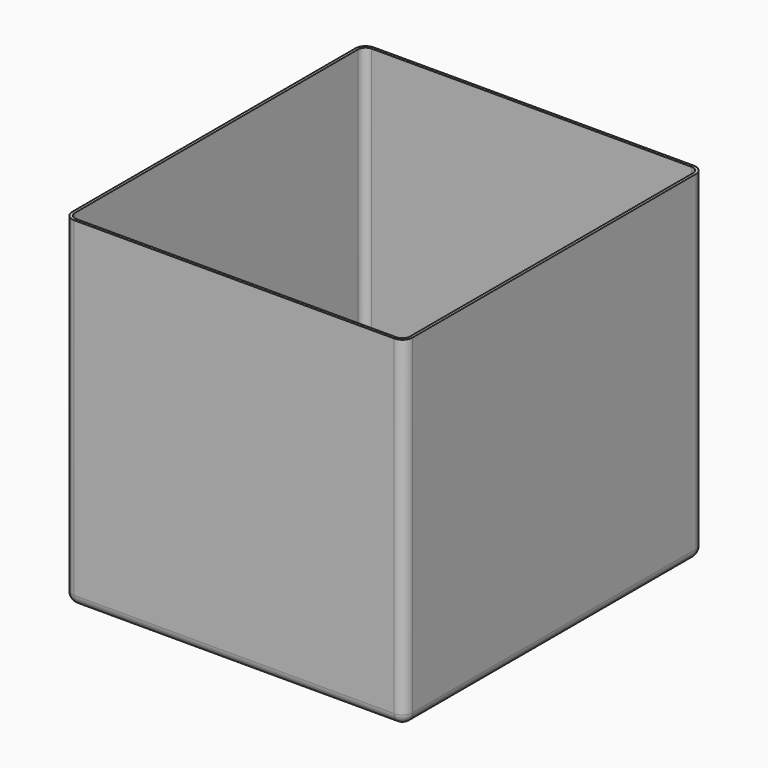
from build123d import *

# Parameters (mm, degrees)
F0_W     = 98.4
F0_H     = 108.4
F1_DEPTH = 1.2
F0_W_2   = 100
F0_H_2   = 110
F2_DEPTH = 100
F3_R     = 2.2
F4_R     = 3


with BuildPart() as f1:
    # F0 (on Top) → F1 (new body)
    with BuildSketch(Plane.XY):
        Rectangle(F0_W, F0_H)
    extrude(amount=F1_DEPTH)

    # F0 (on Top) → F2 (join)
    with BuildSketch(Plane.XY):
        Rectangle(F0_W_2, F0_H_2)
        Rectangle(F0_W, F0_H, mode=Mode.SUBTRACT)
    extrude(amount=F2_DEPTH)

    # F3
    f3_edges = [f1.edges().sort_by_distance(p)[0] for p in [
        (49.2, 0, 1.2),
        (0, 54.2, 1.2),
        (-49.2, 0, 1.2),
        (0, -54.2, 1.2),
        (-49.2, 54.2, 50.6),
        (-49.2, -54.2, 50.6),
        (49.2, -54.2, 50.6),
        (49.2, 54.2, 50.6),
    ]]
    fillet(f3_edges, radius=F3_R)

    # F4
    f4_edges = [f1.edges().sort_by_distance(p)[0] for p in [
        (50, 55, 50),
        (50, 0, 0),
        (0, 55, 0),
        (-50, 0, 0),
        (0, -55, 0),
        (-50, 55, 50),
        (-50, -55, 50),
        (50, -55, 50),
    ]]
    fillet(f4_edges, radius=F4_R)


solid = f1.part
